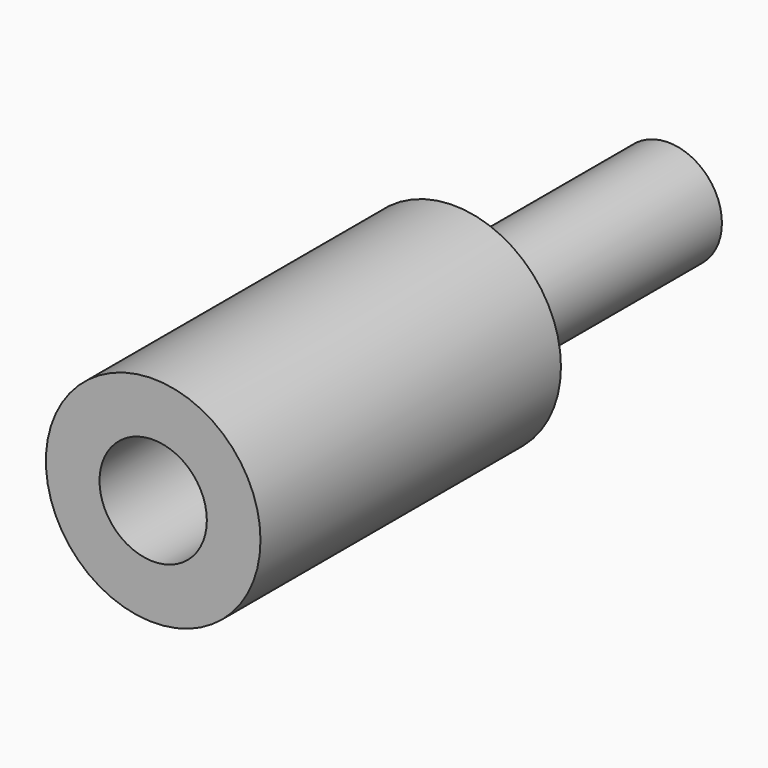
from build123d import *

# Parameters (mm, degrees)
F0_R     = 2
F1_DEPTH = 7
F2_R     = 1
F3_DEPTH = 5
F4_R     = 1
F5_DEPTH = 5


with BuildPart() as f1:
    # F0 (on Front) → F1 (new body)
    with BuildSketch(Plane.XZ):
        Circle(F0_R)
    extrude(amount=F1_DEPTH)

    # F2 (on Front) → F3 (join)
    with BuildSketch(Plane.XZ):
        Circle(F2_R)
    extrude(amount=-F3_DEPTH)

    # F4 (on face) → F5 (cut)
    with BuildSketch(Plane.XZ.offset(7)):
        Circle(F4_R)
    extrude(amount=-F5_DEPTH, mode=Mode.SUBTRACT)


solid = f1.part
